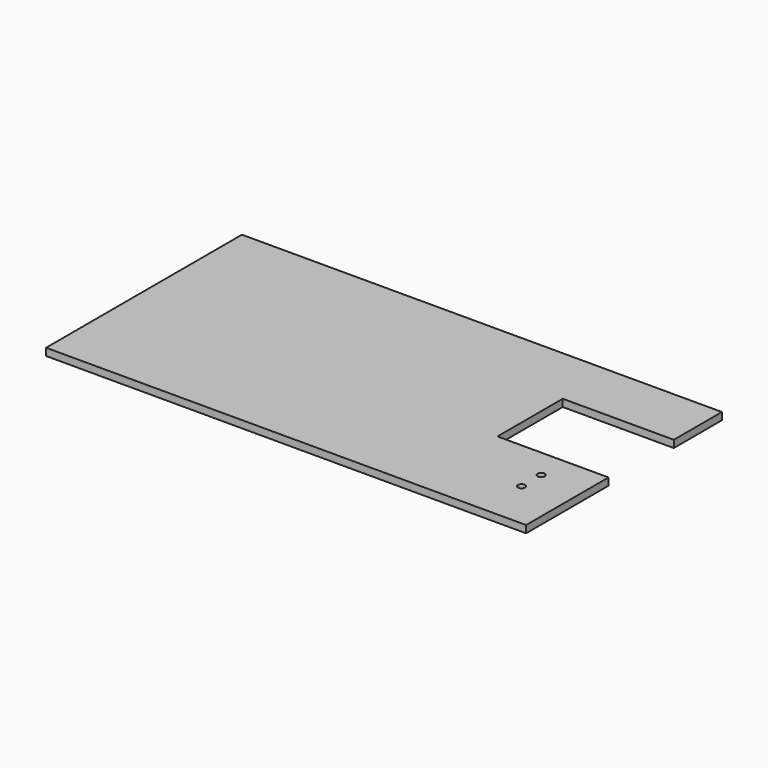
from build123d import *

# Parameters (mm, degrees)
F0_W     = 100
F0_H     = 51
F1_DEPTH = 1.52
F2_W     = 23.136646
F2_H     = 17
F2_R     = 0.75
F3_DEPTH = 25


with BuildPart() as f1:
    # F0 (on Top) → F1 (new body)
    with BuildSketch(Plane.XY):
        Rectangle(F0_W, F0_H)
    extrude(amount=F1_DEPTH)

    # F2 (on face) → F3 (cut)
    with BuildSketch(Plane.XY.offset(1.52)):
        with Locations((38.431677, 4.47)):
            Rectangle(F2_W, F2_H)
        with Locations((40.9, -10.2)):
            Circle(F2_R)
        with Locations((40.9, -15.28)):
            Circle(F2_R)
    extrude(amount=-F3_DEPTH, mode=Mode.SUBTRACT)


solid = f1.part
